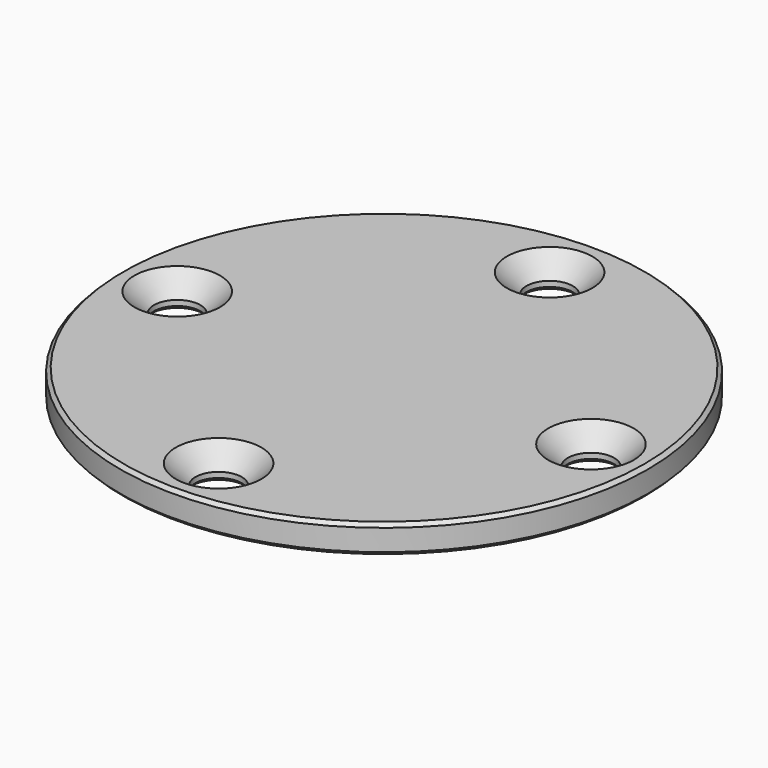
from build123d import *

# Parameters (mm, degrees)
F0_R     = 37
F0_R_2   = 3.25
F1_DEPTH = 4
F2_SIZE  = 2.75
F3_SIZE  = 0.5


with BuildPart() as f1:
    # F0 (on Top) → F1 (new body)
    with BuildSketch(Plane.XY):
        Circle(F0_R)
        with Locations((0, -29)):
            Circle(F0_R_2, mode=Mode.SUBTRACT)
        with Locations((-29, 0)):
            Circle(F0_R_2, mode=Mode.SUBTRACT)
        with Locations((29, 0)):
            Circle(F0_R_2, mode=Mode.SUBTRACT)
        with Locations((0, 29)):
            Circle(F0_R_2, mode=Mode.SUBTRACT)
    extrude(amount=F1_DEPTH)

    # F2
    f2_edges = [f1.edges().sort_by_distance(p)[0] for p in [
        (-3.25, -29, 4),
        (-32.25, 0, 4),
        (-3.25, 29, 4),
        (25.75, 0, 4),
    ]]
    chamfer(f2_edges, length=F2_SIZE)

    # F3
    f3_edges = [f1.edges().sort_by_distance(p)[0] for p in [
        (37, 0, 2),
        (-37, 0, 0),
        (-37, 0, 4),
        (-3.25, -29, 0),
        (-32.25, 0, 0),
        (-3.25, 29, 0),
        (25.75, 0, 0),
    ]]
    chamfer(f3_edges, length=F3_SIZE)


solid = f1.part
